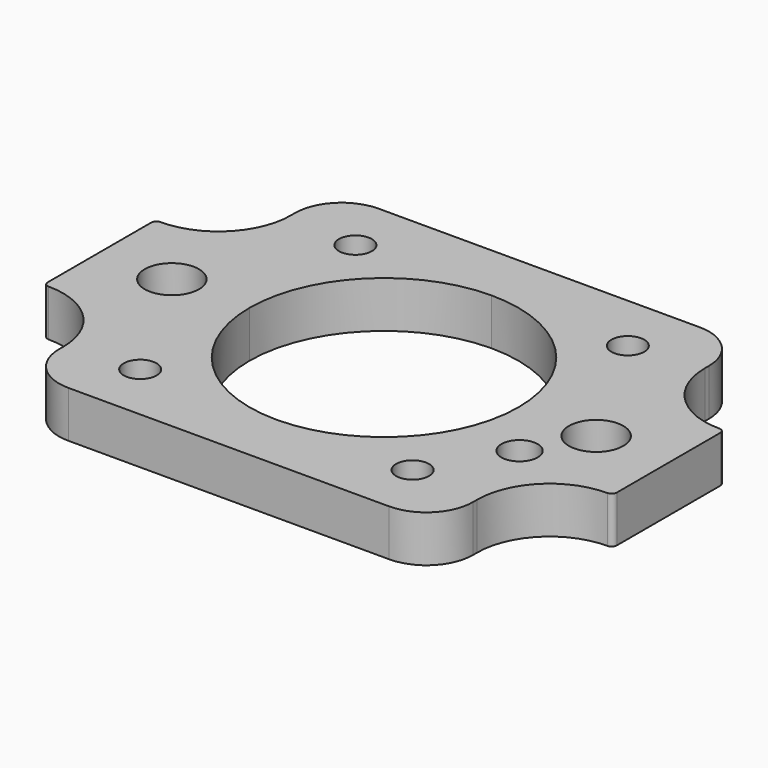
from build123d import *

# Parameters (mm, degrees)
F0_R     = 3.175
F0_R_2   = 6
F0_R_3   = 3.5
F1_DEPTH = 9


with BuildPart() as f1:
    # F0 (on Top) → F1 (new body)
    with BuildSketch(Plane.XY):
        with BuildLine():
            Line((0, 26), (0, 37.5))
            Line((0, 37.5), (-31, 37.5))
            ThreePointArc((-31, 37.5), (-37.363961, 34.863961), (-40, 28.5))
            Line((-40, 28.5), (-40, 27.5))
            ThreePointArc((-40, 27.5), (-44.100505, 17.600505), (-54, 13.5))
            ThreePointArc((-54, 13.5), (-54.707107, 13.207107), (-55, 12.5))
            Line((-55, 12.5), (-55, 0))
            Line((-55, 0), (-46.25, 0))
            ThreePointArc((-46.25, 0), (-41, 5.25), (-35.75, 0))
            Line((-35.75, 0), (-26, 0))
            ThreePointArc((-26, 0), (-18.384776, 18.384776), (0, 26))
        make_face()
        with Locations((-26.324893, 26)):
            Circle(F0_R, mode=Mode.SUBTRACT)
        with BuildLine():
            Line((31, 37.5), (0, 37.5))
            Line((0, 37.5), (0, 26))
            ThreePointArc((0, 26), (18.384776, 18.384776), (26, 0))
            Line((26, 0), (35.75, 0))
            ThreePointArc((35.75, 0), (41, 5.25), (46.25, 0))
            Line((46.25, 0), (55, 0))
            Line((55, 0), (55, 12.5))
            ThreePointArc((55, 12.5), (54.707107, 13.207107), (54, 13.5))
            ThreePointArc((54, 13.5), (44.100505, 17.600505), (40, 27.5))
            Line((40, 27.5), (40, 28.5))
            ThreePointArc((40, 28.5), (37.363961, 34.863961), (31, 37.5))
        make_face()
        with Locations((26.324893, 26)):
            Circle(F0_R, mode=Mode.SUBTRACT)
        with BuildLine():
            ThreePointArc((0, -26), (-18.384776, -18.384776), (-26, 0))
            Line((-26, 0), (-35.75, 0))
            ThreePointArc((-35.75, 0), (-41, -5.25), (-46.25, 0))
            Line((-46.25, 0), (-55, 0))
            Line((-55, 0), (-55, -12.5))
            ThreePointArc((-55, -12.5), (-54.707107, -13.207107), (-54, -13.5))
            ThreePointArc((-54, -13.5), (-44.100505, -17.600505), (-40, -27.5))
            Line((-40, -27.5), (-40, -28.5))
            ThreePointArc((-40, -28.5), (-37.363961, -34.863961), (-31, -37.5))
            Line((-31, -37.5), (0, -37.5))
            Line((0, -37.5), (0, -26))
        make_face()
        with Locations((-26.324893, -26)):
            Circle(F0_R, mode=Mode.SUBTRACT)
        with BuildLine():
            Line((35.75, 0), (26, 0))
            ThreePointArc((26, 0), (18.384776, -18.384776), (0, -26))
            Line((0, -26), (0, -37.5))
            Line((0, -37.5), (31, -37.5))
            ThreePointArc((31, -37.5), (37.363961, -34.863961), (40, -28.5))
            Line((40, -28.5), (40, -27.5))
            ThreePointArc((40, -27.5), (44.100505, -17.600505), (54, -13.5))
            ThreePointArc((54, -13.5), (54.707107, -13.207107), (55, -12.5))
            Line((55, -12.5), (55, 0))
            Line((55, 0), (46.25, 0))
            ThreePointArc((46.25, 0), (41, -5.25), (35.75, 0))
        make_face()
        with Locations((26.324893, -26)):
            Circle(F0_R, mode=Mode.SUBTRACT)
        with Locations((35, -11)):
            Circle(F0_R_2, mode=Mode.SUBTRACT)
        with Locations((35, -11)):
            Circle(F0_R_2)
        with Locations((35, -11)):
            Circle(F0_R_3, mode=Mode.SUBTRACT)
    extrude(amount=F1_DEPTH)


solid = f1.part
